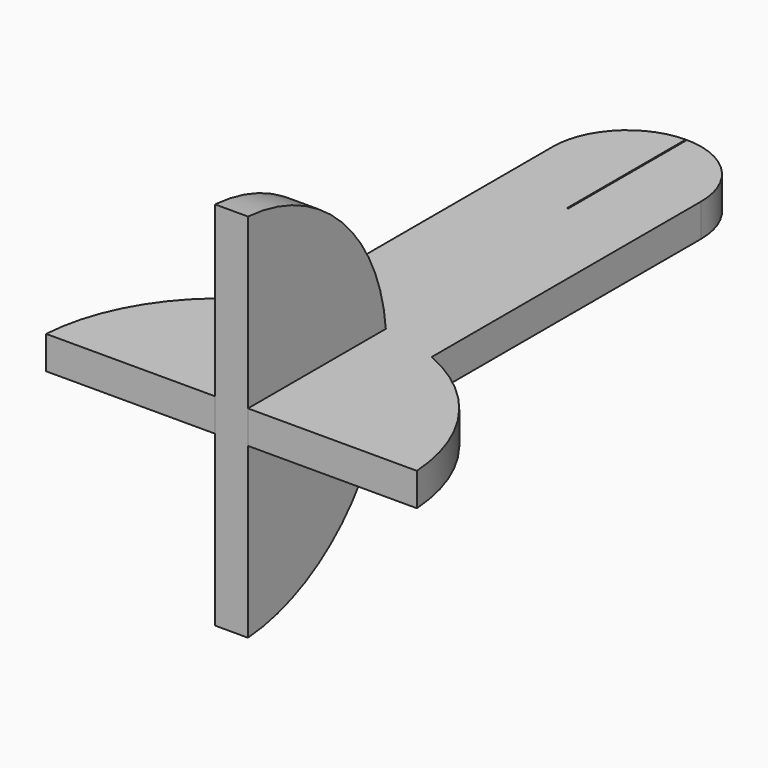
from build123d import *

# Parameters (mm, degrees)
F1_DEPTH = 3.3866666667
F2_W     = 12.7
F2_H     = 1.6933333333
F3_DEPTH = 3.3866666667


with BuildPart() as f1:
    # F0 (on Top) → F1 (new body)
    with BuildSketch(Plane.XY):
        with BuildLine():
            Line((-1.6933333333, 12.7), (0, 12.7))
            Line((0, 12.7), (0, 17.78))
            ThreePointArc((0, 17.78), (-3.8916783195, 17.3792277488), (-7.62, 16.1937337648))
            Line((-7.62, 16.1937337648), (-7.62, 0))
            Line((-7.62, 0), (-1.6933333333, 0))
            Line((-1.6933333333, 0), (-1.6933333333, 12.7))
        make_face()
        with BuildLine():
            Line((1.6933333333, 12.7), (1.6933333333, 0))
            Line((1.6933333333, 0), (7.62, 0))
            Line((7.62, 0), (7.62, 16.1937337648))
            ThreePointArc((7.62, 16.1937337648), (3.8916783195, 17.3792277488), (0, 17.78))
            Line((0, 17.78), (0, 12.7))
            Line((0, 12.7), (1.6933333333, 12.7))
        make_face()
        with BuildLine():
            Line((7.62, 16.1937337648), (7.62, 0))
            Line((7.62, 0), (19.05, 0))
            ThreePointArc((19.05, 0), (15.6006883922, 9.6960544879), (7.62, 16.1937337648))
        make_face()
        with BuildLine():
            Line((-19.05, 0), (-7.62, 0))
            Line((-7.62, 0), (-7.62, 16.1937337648))
            ThreePointArc((-7.62, 16.1937337648), (-15.6006883922, 9.6960544879), (-19.05, 0))
        make_face()
        with BuildLine():
            ThreePointArc((0.0635, 43.1802645879), (5.4105577347, 45.4343439357), (7.62, 50.8))
            ThreePointArc((7.62, 50.8), (5.4105577347, 56.1656560643), (0.0635, 58.4197354121))
            Line((0.0635, 58.4197354121), (0.0635, 50.8))
            Line((0.0635, 50.8), (0.0635, 43.1802645879))
        make_face()
        with BuildLine():
            ThreePointArc((-0.0635, 58.4197354121), (-5.4105577347, 56.1656560643), (-7.62, 50.8))
            ThreePointArc((-7.62, 50.8), (-5.4105577347, 45.4343439357), (-0.0635, 43.1802645879))
            Line((-0.0635, 43.1802645879), (-0.0635, 50.8))
            Line((-0.0635, 50.8), (-0.0635, 58.4197354121))
        make_face()
        with BuildLine():
            ThreePointArc((-7.62, 16.1937337648), (-3.8916783195, 17.3792277488), (0, 17.78))
            ThreePointArc((0, 17.78), (3.8916783195, 17.3792277488), (7.62, 16.1937337648))
            Line((7.62, 16.1937337648), (7.62, 50.8))
            ThreePointArc((7.62, 50.8), (5.4105577347, 45.4343439357), (0.0635, 43.1802645879))
            ThreePointArc((0.0635, 43.1802645879), (0, 43.18), (-0.0635, 43.1802645879))
            ThreePointArc((-0.0635, 43.1802645879), (-5.4105577347, 45.4343439357), (-7.62, 50.8))
            Line((-7.62, 50.8), (-7.62, 16.1937337648))
        make_face()
    extrude(amount=F1_DEPTH)


with BuildPart() as f3:
    # F2 (on face) → F3 (new body)
    with BuildSketch(Plane.YZ.offset(-1.6933333333)):
        with BuildLine():
            Line((0, 20.7433333333), (0, 3.3866666667))
            Line((0, 3.3866666667), (12.7, 3.3866666667))
            Line((12.7, 3.3866666667), (17.7047713172, 3.3866666667))
            ThreePointArc((17.7047713172, 3.3866666667), (12.0523824986, 15.3291758556), (0, 20.7433333333))
        make_face()
        with BuildLine():
            Line((12.7, 0), (0, 0))
            Line((0, 0), (0, -17.3566666667))
            ThreePointArc((0, -17.3566666667), (12.0523824986, -11.942509189), (17.7047713172, 0))
            Line((17.7047713172, 0), (12.7, 0))
        make_face()
        with Locations((6.35, 0.8466666667)):
            Rectangle(F2_W, F2_H)
        with Locations((6.35, 2.54)):
            Rectangle(F2_W, F2_H)
    extrude(amount=F3_DEPTH)


solid = Compound([f1.part, f3.part])
